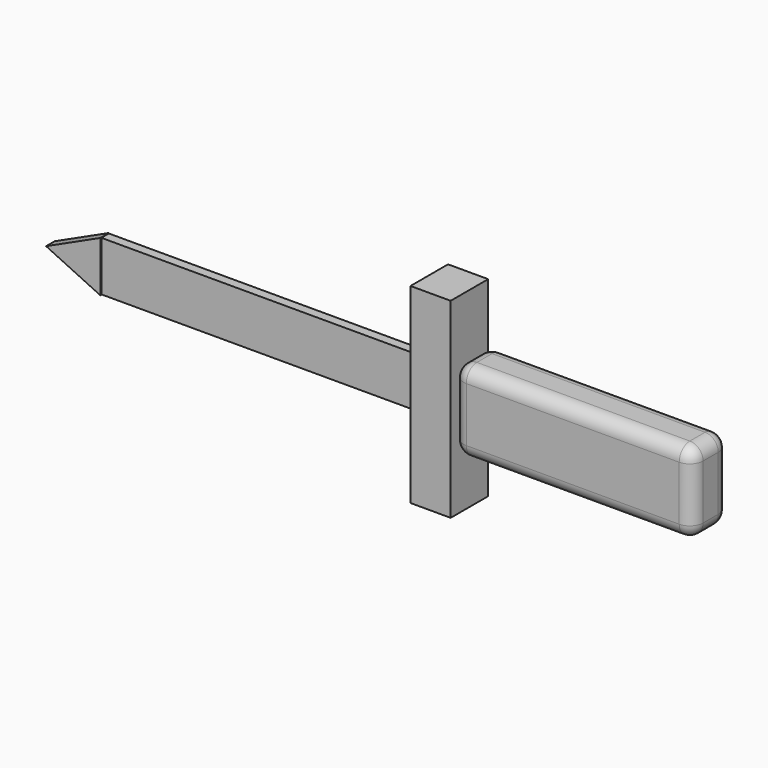
from build123d import *

# Parameters (mm, degrees)
F4_DEPTH = 2.06025
F1_W     = 15.403003
F1_H     = 73.306844
F5_DEPTH = 8.99555
F0_W     = 123.794444
F0_H     = 19.111122
F6_DEPTH = 1.79919
F3_W     = 91.847494
F3_H     = 31.09123
F7_DEPTH = 8.71483
F8_R     = 5.08


with BuildPart() as f4:
    # F2 (on Front) → F4 (new body, symmetric)
    with BuildSketch(Plane.XZ):
        Polygon((-62.060211, 9.555561), (-82.882777, 0), (-62.060211, -9.840802), align=None)
    extrude(amount=F4_DEPTH, both=True)


with BuildPart() as f5:
    # F1 (on Front) → F5 (new body, symmetric)
    with BuildSketch(Plane.XZ):
        with Locations((70.169196, 0)):
            Rectangle(F1_W, F1_H)
    extrude(amount=F5_DEPTH, both=True)


with BuildPart() as f6:
    # F0 (on Front) → F6 (new body, symmetric)
    with BuildSketch(Plane.XZ):
        Rectangle(F0_W, F0_H)
    extrude(amount=F6_DEPTH, both=True)


with BuildPart() as f7:
    # F3 (on Front) → F7 (new body, symmetric)
    with BuildSketch(Plane.XZ):
        with Locations((124.487169, 0)):
            Rectangle(F3_W, F3_H)
    extrude(amount=F7_DEPTH, both=True)

    # F8
    f8_edges = [f7.edges().sort_by_distance(p)[0] for p in [
        (170.410916, -8.71483, 0),
        (124.487169, -8.71483, 15.545615),
        (78.563422, -8.71483, 0),
        (124.487169, -8.71483, -15.545615),
        (170.410916, 8.71483, 0),
        (124.487169, 8.71483, 15.545615),
        (78.563422, 8.71483, 0),
        (124.487169, 8.71483, -15.545615),
        (170.410916, 0, 15.545615),
        (78.563422, 0, 15.545615),
        (170.410916, 0, -15.545615),
        (78.563422, 0, -15.545615),
    ]]
    fillet(f8_edges, radius=F8_R)


solid = Compound([f4.part, f5.part, f6.part, f7.part])
